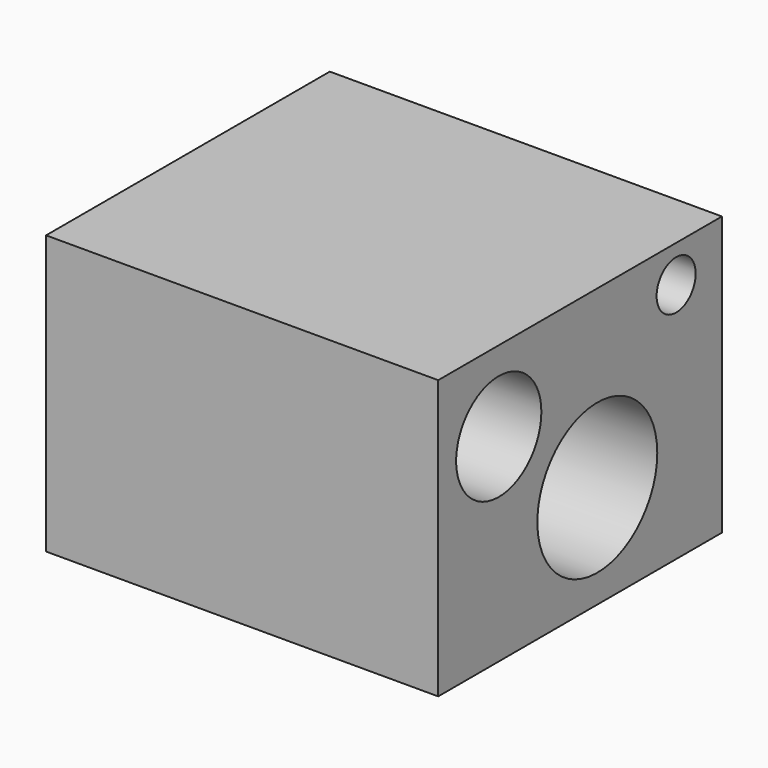
from build123d import *

# Parameters (mm, degrees)
F0_W     = 48.006341
F0_H     = 37.686363
F1_DEPTH = 53.086
F2_R     = 7.209962
F2_R_2   = 10.146827
F2_R_3   = 3.30474
F3_DEPTH = 53.087


with BuildPart() as f1:
    # F0 (on Right) → F1 (new body)
    with BuildSketch(Plane.YZ):
        with Locations((24.00317, -18.843182)):
            Rectangle(F0_W, F0_H)
    extrude(amount=F1_DEPTH)

    # F2 (on face) → F3 (cut, through all)
    with BuildSketch(Plane.YZ.offset(53.086)):
        with Locations((10.243625, -10.878887)):
            Circle(F2_R)
        with Locations((26.919292, -23.742972)):
            Circle(F2_R_2)
        with Locations((40.259819, -5.0027)):
            Circle(F2_R_3)
    extrude(amount=-F3_DEPTH, mode=Mode.SUBTRACT)


solid = f1.part
